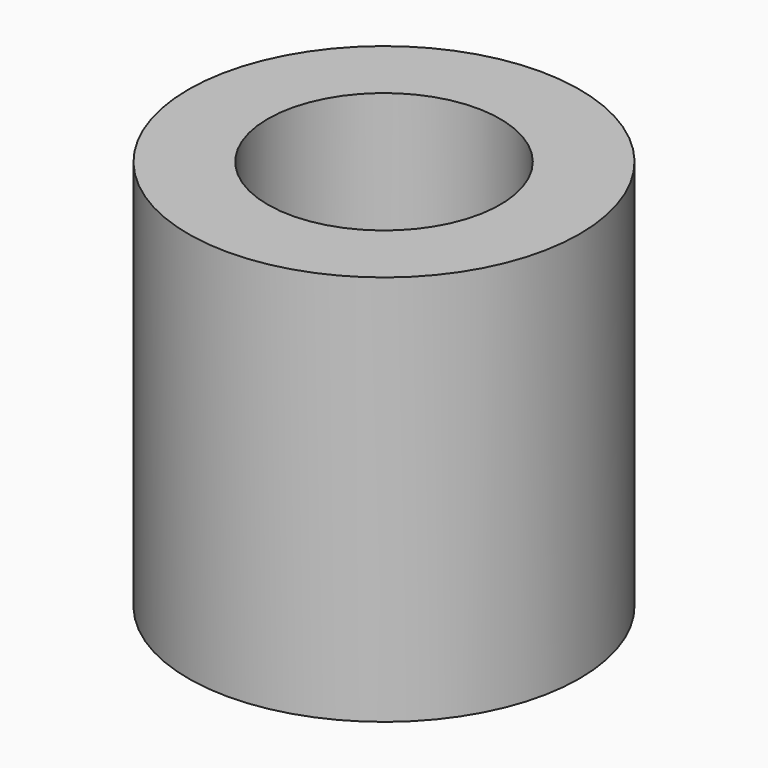
from build123d import *

# Parameters (mm, degrees)
F0_R           = 25.4
F1_DEPTH       = 50.8
F3_D           = 30.1752
F3_CBORE_D     = 33.02
F3_CBORE_DEPTH = 3.175


with BuildPart() as f1:
    # F0 (on Top) → F1 (new body)
    with BuildSketch(Plane.XY):
        Circle(F0_R)
    extrude(amount=F1_DEPTH)

    # F3 (through all)
    with Locations(Plane(origin=(0, 0, 0), x_dir=(1, 0, 0), z_dir=(0, 0, -1))):
        with Locations((0, 0)):
            CounterBoreHole(F3_D / 2, F3_CBORE_D / 2, F3_CBORE_DEPTH)


solid = f1.part
